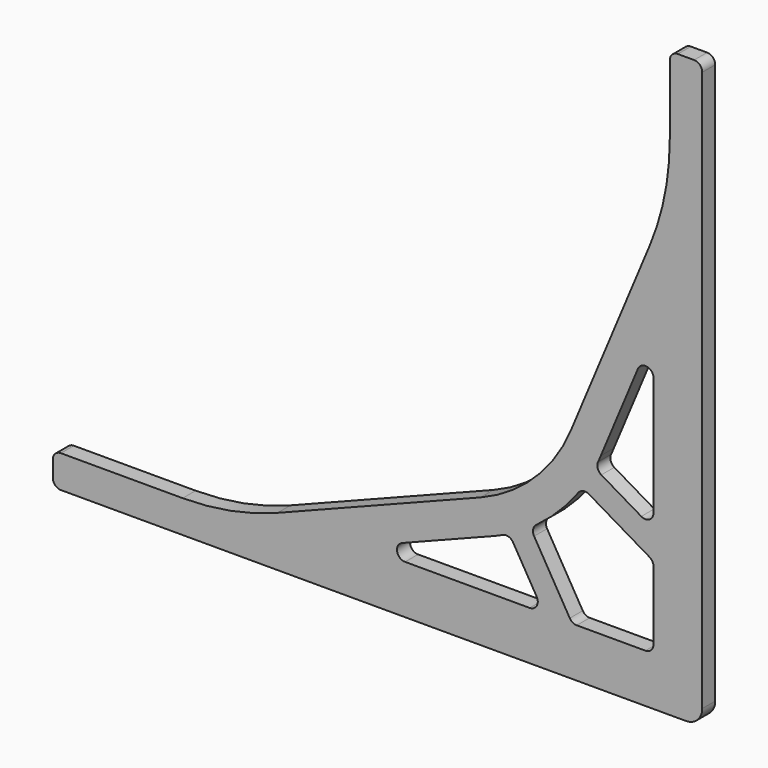
from build123d import *

# Parameters (mm, degrees)
F1_DEPTH = 6.35
F2_R     = 3.175


with BuildPart() as f1:
    # F0 (on Front) → F1 (new body)
    with BuildSketch(Plane.XZ):
        with BuildLine():
            Line((-254, 12.7), (-254, 0))
            Line((-254, 0), (-6.35, 0))
            ThreePointArc((-6.35, 0), (-1.859872, 1.859872), (0, 6.35))
            Line((0, 6.35), (0, 228.6))
            Line((0, 228.6), (-12.7, 228.6))
            Line((-12.7, 228.6), (-12.7, 198.205883))
            ThreePointArc((-12.7, 198.205883), (-14.689229, 178.199527), (-20.579021, 158.976581))
            Line((-20.579021, 158.976581), (-51.366437, 85.423735))
            ThreePointArc((-51.366437, 85.423735), (-65.554229, 64.533113), (-86.762078, 50.82404))
            Line((-86.762078, 50.82404), (-166.112046, 19.711186))
            ThreePointArc((-166.112046, 19.711186), (-184.327579, 14.468183), (-203.2, 12.7))
            Line((-203.2, 12.7), (-254, 12.7))
        make_face()
        with BuildLine():
            Line((-117.371321, 25.1809), (-82.126084, 39.000439))
            ThreePointArc((-82.126084, 39.000439), (-80.06592, 39.843141), (-78.031249, 40.745656))
            ThreePointArc((-78.031249, 40.745656), (-75.753604, 40.892633), (-73.965863, 39.473743))
            Line((-73.965863, 39.473743), (-64.755951, 23.83627))
            ThreePointArc((-64.755951, 23.83627), (-64.735236, 20.64943), (-67.49172, 19.05))
            Line((-67.49172, 19.05), (-116.212322, 19.05))
            ThreePointArc((-116.212322, 19.05), (-119.332067, 21.635237), (-117.371321, 25.1809))
        make_face(mode=Mode.SUBTRACT)
        with BuildLine():
            Line((-51.80374, 20.61373), (-65.758555, 44.307554))
            ThreePointArc((-65.758555, 44.307554), (-66.132559, 46.559084), (-64.899556, 48.479753))
            ThreePointArc((-64.899556, 48.479753), (-56.060512, 56.060512), (-48.479753, 64.899556))
            ThreePointArc((-48.479753, 64.899556), (-46.559084, 66.132559), (-44.307554, 65.758555))
            Line((-44.307554, 65.758555), (-20.61373, 51.80374))
            ThreePointArc((-20.61373, 51.80374), (-19.468516, 50.643541), (-19.05, 49.067971))
            Line((-19.05, 49.067971), (-19.05, 22.225))
            ThreePointArc((-19.05, 22.225), (-19.979936, 19.979936), (-22.225, 19.05))
            Line((-22.225, 19.05), (-49.067971, 19.05))
            ThreePointArc((-49.067971, 19.05), (-50.643541, 19.468516), (-51.80374, 20.61373))
        make_face(mode=Mode.SUBTRACT)
        with BuildLine():
            Line((-39.651315, 80.520073), (-25.153781, 115.155487))
            ThreePointArc((-25.153781, 115.155487), (-21.599801, 117.042408), (-19.05, 113.929571))
            Line((-19.05, 113.929571), (-19.05, 67.49172))
            ThreePointArc((-19.05, 67.49172), (-20.64943, 64.735236), (-23.83627, 64.755951))
            Line((-23.83627, 64.755951), (-39.473743, 73.965863))
            ThreePointArc((-39.473743, 73.965863), (-40.892633, 75.753604), (-40.745656, 78.031249))
            ThreePointArc((-40.745656, 78.031249), (-40.187384, 79.27078), (-39.651315, 80.520073))
        make_face(mode=Mode.SUBTRACT)
    extrude(amount=F1_DEPTH)

    # F2
    f2_edges = [f1.edges().sort_by_distance(p)[0] for p in [
        (-254, -3.175, 0),
        (-254, -3.175, 12.7),
        (0, -3.175, 228.6),
        (-12.7, -3.175, 228.6),
    ]]
    fillet(f2_edges, radius=F2_R)


solid = f1.part
